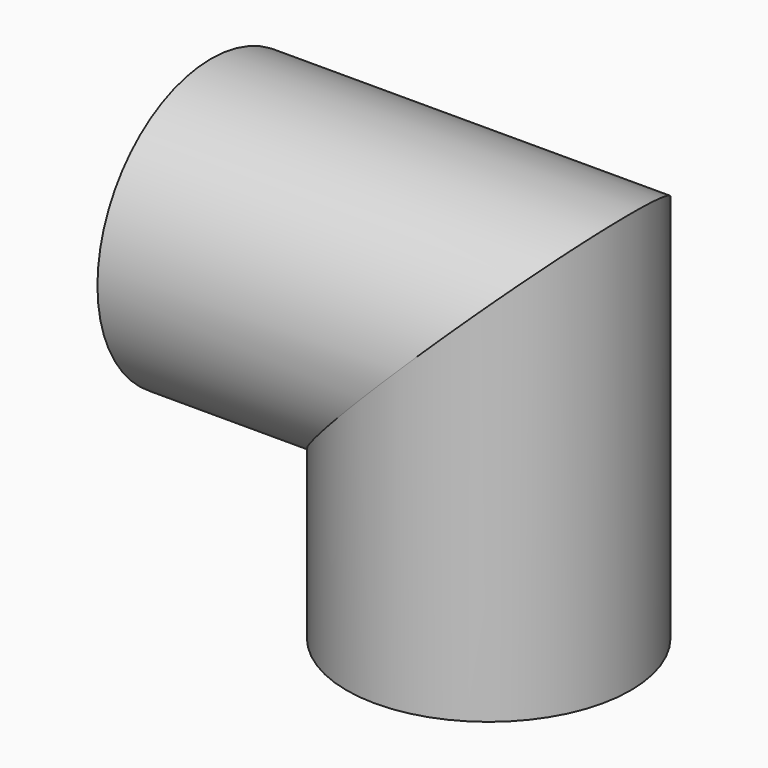
from build123d import *

# Parameters (mm, degrees)
F0_R = 6.35


with BuildPart() as f2:
    # F2: sweep along a path in F1
    with BuildLine(Plane.XZ) as f2_path:
        Line((0, 32.3748141527), (12.7, 32.3748141527))
        Line((12.7, 32.3748141527), (12.7, 19.6748141527))
    # F0 (on Right) → F2 (sweep)
    with BuildSketch(Plane.YZ):
        with Locations((-27.3831021041, 32.0895723999)):
            Circle(F0_R)
    sweep(path=f2_path.line, transition=Transition.RIGHT)


solid = f2.part
